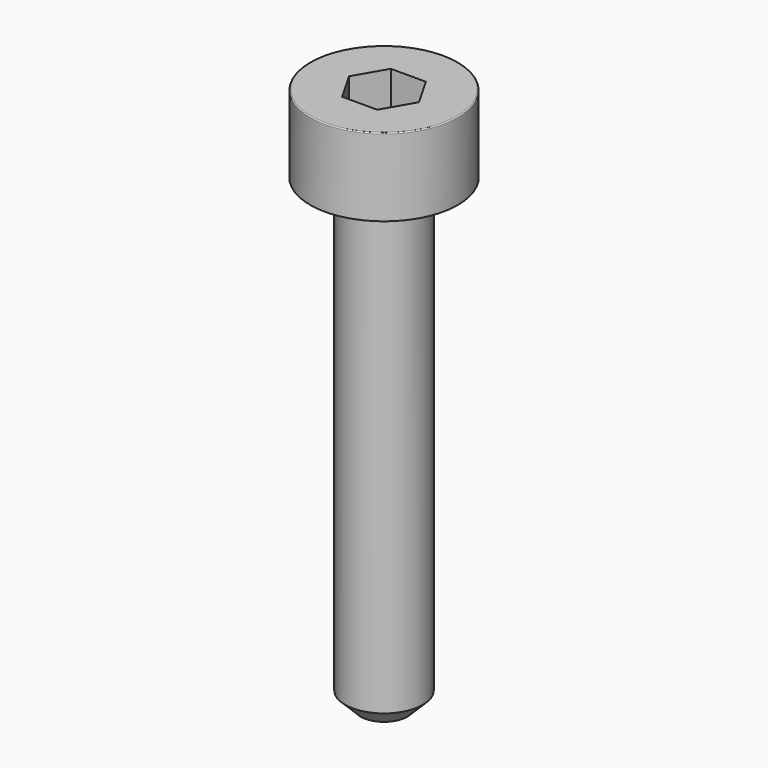
from build123d import *

# Parameters (mm, degrees)
POCKET_DEPTH = 1.56


with BuildPart() as part:
    # Sketch → Revolve (revolve)
    with BuildSketch(Plane.YZ):
        with BuildLine():
            Line((0.999, 0), (1.9, 0))
            Line((1.9, 0), (1.9, 1.97229))
            ThreePointArc((1.9, 1.97229), (1.891884, 1.991884), (1.87229, 2))
            Line((1.87229, 2), (0, 2))
            Line((0, -12), (0, 2))
            Line((0.6, -12), (0, -12))
            Line((1, -11.6), (0.6, -12))
            Line((1, -0.2), (1, -11.6))
            Line((0.999, 0), (1, -0.2))
        make_face()
    revolve(axis=Axis((0, 0, 0), (0, 0, 1)))

    # Sketch001 → Pocket (cut)
    with BuildSketch(Plane.XY.offset(2)):
        Polygon((0.900666, 0), (0.450333, 0.78), (-0.450333, 0.78), (-0.900666, 0), (-0.450333, -0.78), (0.450333, -0.78), align=None)
    extrude(amount=-POCKET_DEPTH, mode=Mode.SUBTRACT)


solid = part.part
